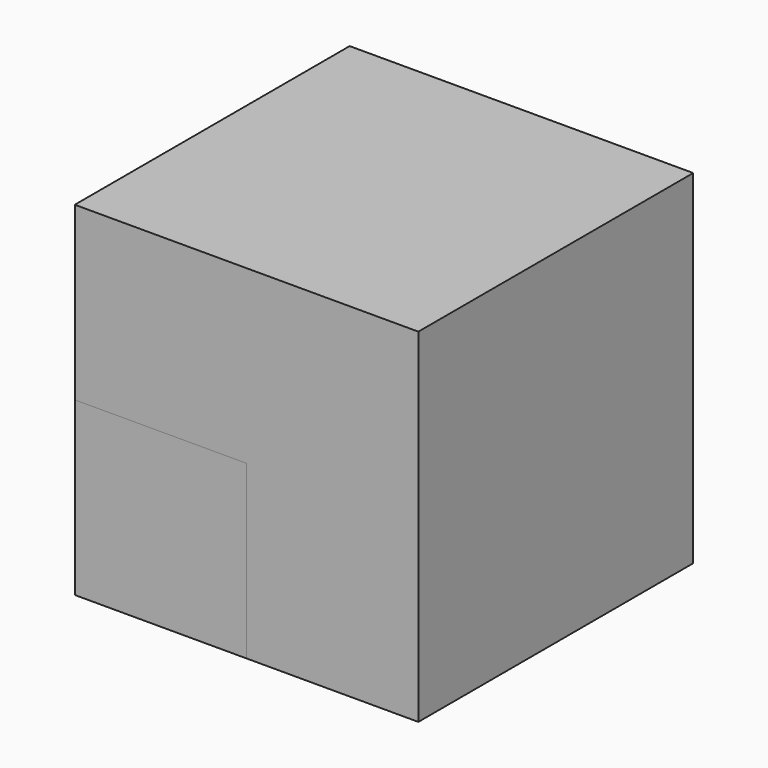
from build123d import *

# Parameters (mm, degrees)
BOX_W        = 10
BOX_H        = 10
BOX_DEPTH    = 10
BOX001_W     = 5
BOX001_H     = 5
BOX001_DEPTH = 5


with BuildPart() as obj1:
    # Box → Box (new body)
    with BuildSketch(Plane.XY):
        with Locations((5, 5)):
            Rectangle(BOX_W, BOX_H)
    extrude(amount=BOX_DEPTH)


with BuildPart() as obj2:
    # Box001 → Box001 (new body)
    with BuildSketch(Plane.XY):
        with Locations((2.5, 2.5)):
            Rectangle(BOX001_W, BOX001_H)
    extrude(amount=BOX001_DEPTH)


solid = Compound([obj1.part, obj2.part])
